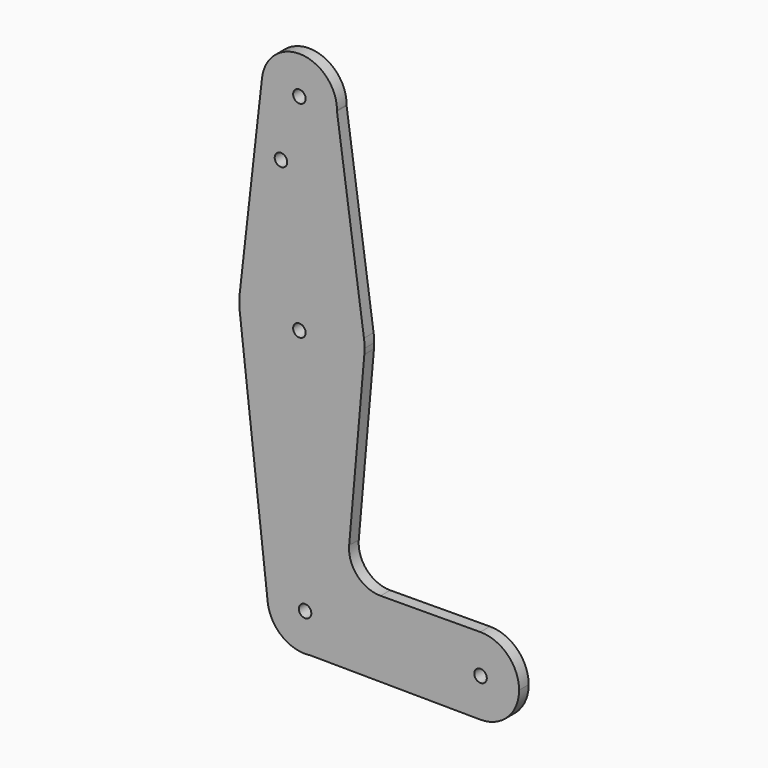
from build123d import *

# Parameters (mm, degrees)
F0_R     = 1.5875
F1_DEPTH = 3.048


with BuildPart() as f1:
    # F0 (on Front) → F1 (new body)
    with BuildSketch(Plane.XZ):
        with BuildLine():
            ThreePointArc((9.522785, 51.983142), (9.524446, 52.085845), (9.525, 52.18856))
            ThreePointArc((9.525, 52.18856), (0.536634, 61.698431), (-9.464533, 53.260123))
            ThreePointArc((-9.464533, 53.260123), (-0.639155, 42.685029), (9.522785, 51.983142))
        make_face()
        with Locations((0, 52.18856)):
            Circle(F0_R, mode=Mode.SUBTRACT)
        with BuildLine():
            ThreePointArc((9.522785, 51.983142), (-0.639155, 42.685029), (-9.464533, 53.260123))
            Line((-9.464533, 53.260123), (-15.135164, 3.174498))
            ThreePointArc((-15.135164, 3.174498), (0.419742, 17.262045), (16.357916, 3.609619))
            Line((16.357916, 3.609619), (9.522785, 51.983142))
        make_face()
        with Locations((-4.666403, 36.5252)):
            Circle(F0_R, mode=Mode.SUBTRACT)
        with BuildLine():
            ThreePointArc((16.357916, 3.609619), (0.419742, 17.262045), (-15.135164, 3.174498))
            ThreePointArc((-15.135164, 3.174498), (-15.235943, 1.38856), (-15.135164, -0.397377))
            ThreePointArc((-15.135164, -0.397377), (0.838746, -14.485184), (16.453213, 0))
            ThreePointArc((16.453213, 0), (16.498839, 0.693614), (16.514057, 1.38856))
            ThreePointArc((16.514057, 1.38856), (16.474973, 2.501831), (16.357916, 3.609619))
        make_face()
        Circle(F0_R, mode=Mode.SUBTRACT)
        with BuildLine():
            ThreePointArc((16.453213, 0), (0.838746, -14.485184), (-15.135164, -0.397377))
            Line((-15.135164, -0.397377), (-8.026655, -63.183002))
            ThreePointArc((-8.026655, -63.183002), (0.901244, -52.601569), (10.962878, -62.11144))
            ThreePointArc((10.962878, -62.11144), (8.615765, -68.372715), (2.731159, -71.548232))
            Line((2.731159, -71.548232), (45.812965, -71.878663))
            ThreePointArc((45.812965, -71.878663), (36.120374, -62.100654), (45.834535, -52.344075))
            Line((45.834535, -52.344075), (20.567293, -52.482067))
            ThreePointArc((20.567293, -52.482067), (14.676216, -49.918131), (12.604146, -43.836595))
            Line((12.604146, -43.836595), (16.453213, 0))
        make_face()
        with BuildLine():
            ThreePointArc((10.962878, -62.11144), (0.901244, -52.601569), (-8.026655, -63.183002))
            ThreePointArc((-8.026655, -63.183002), (-5.426698, -68.714714), (0, -71.527285))
            Line((0, -71.527285), (2.731159, -71.548232))
            ThreePointArc((2.731159, -71.548232), (8.615765, -68.372715), (10.962878, -62.11144))
        make_face()
        with Locations((1.437878, -62.11144)):
            Circle(F0_R, mode=Mode.SUBTRACT)
        with BuildLine():
            Line((2.731159, -71.548232), (0, -71.527285))
            ThreePointArc((0, -71.527285), (1.364825, -71.63616), (2.731159, -71.548232))
        make_face()
        with BuildLine():
            ThreePointArc((55.655388, -62.11144), (52.775666, -55.185933), (45.834535, -52.344075))
            ThreePointArc((45.834535, -52.344075), (36.120374, -62.100654), (45.812965, -71.878663))
            ThreePointArc((45.812965, -71.878663), (52.768014, -69.044548), (55.655388, -62.11144))
        make_face()
        with Locations((45.887878, -62.11144)):
            Circle(F0_R, mode=Mode.SUBTRACT)
    extrude(amount=F1_DEPTH)


solid = f1.part
